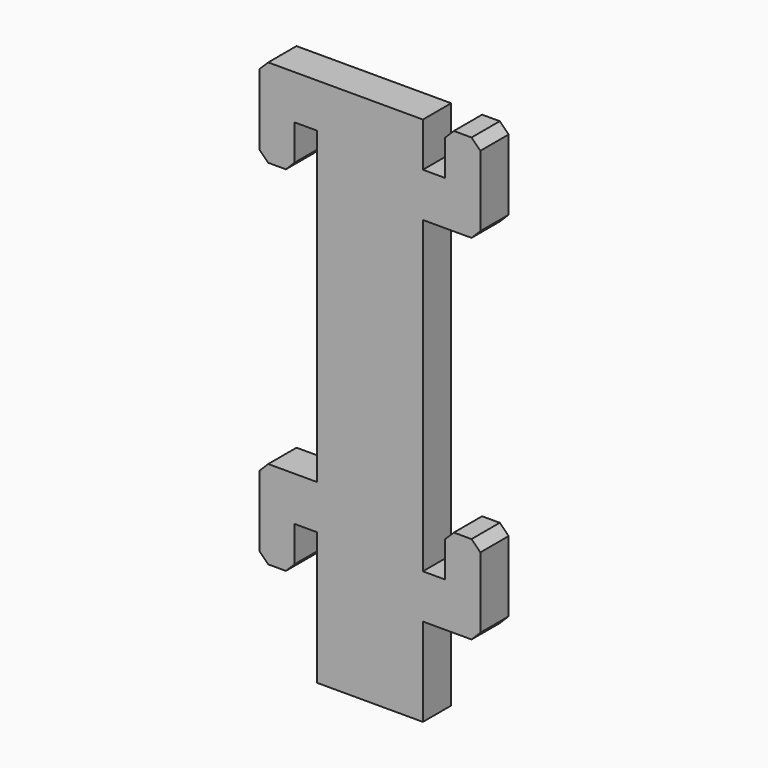
from build123d import *

# Parameters (mm, degrees)
F1_DEPTH = 5.08
F2_SIZE  = 1.27


with BuildPart() as f1:
    # F0 (on Front) → F1 (new body)
    with BuildSketch(Plane.XZ):
        Polygon((0, -6.35), (0, 0), (3.175, 0), (3.175, -44.45), (3.175, -50.8), (18.415, -50.8), (18.415, -6.35), (18.415, 0), (18.415, 6.35), (3.175, 6.35), (-5.08, 6.35), (-5.08, -6.35), align=None)
        Polygon((3.175, -50.8), (3.175, -44.45), (-5.08, -44.45), (-5.08, -57.15), (0, -57.15), (0, -50.8), (0.926509, -50.8), align=None)
        Polygon((18.415, -50.8), (3.175, -50.8), (3.175, -69.85), (18.415, -69.85), (18.415, -57.15), align=None)
        Polygon((21.59, -50.8), (18.415, -50.8), (18.415, -57.15), (26.67, -57.15), (26.67, -44.45), (21.59, -44.45), align=None)
        Polygon((18.415, 0), (18.415, -6.35), (26.67, -6.35), (26.67, 6.35), (21.59, 6.35), (21.59, 0), align=None)
    extrude(amount=F1_DEPTH)

    # F2
    f2_edges = [f1.edges().sort_by_distance(p)[0] for p in [
        (21.59, -2.54, 6.35),
        (26.67, -2.54, 6.35),
        (26.67, -2.54, -6.35),
        (0, -2.54, -6.35),
        (-5.08, -2.54, -6.35),
        (-5.08, -2.54, 6.35),
        (26.67, -2.54, -44.45),
        (21.59, -2.54, -44.45),
        (26.67, -2.54, -57.15),
        (-5.08, -2.54, -44.45),
        (-5.08, -2.54, -57.15),
        (0, -2.54, -57.15),
    ]]
    chamfer(f2_edges, length=F2_SIZE)


solid = f1.part
